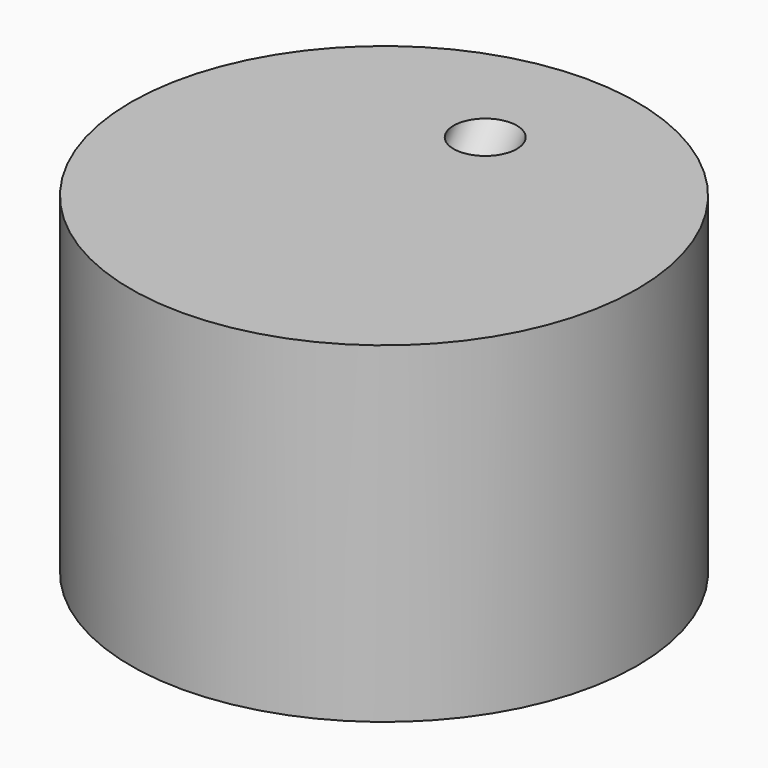
from build123d import *

# Parameters (mm, degrees)
F0_R     = 100
F1_DEPTH = 131
F3_R     = 12.5


with BuildPart() as f1:
    # F0 (on Top) → F1 (new body)
    with BuildSketch(Plane.XY):
        Circle(F0_R)
    extrude(amount=F1_DEPTH)

    # F5: sweep along a path in F4
    with BuildLine(Plane.YZ) as f5_path:
        Line((50, 131), (-50, 0))
    # F3 (on face) → F5 (sweep, cut)
    with BuildSketch(Plane(origin=(0, 0, 0), x_dir=(1, 0, 0), z_dir=(0, 0, -1))):
        with Locations((0, 50)):
            Circle(F3_R)
    sweep(path=f5_path.line, mode=Mode.SUBTRACT)


solid = f1.part
